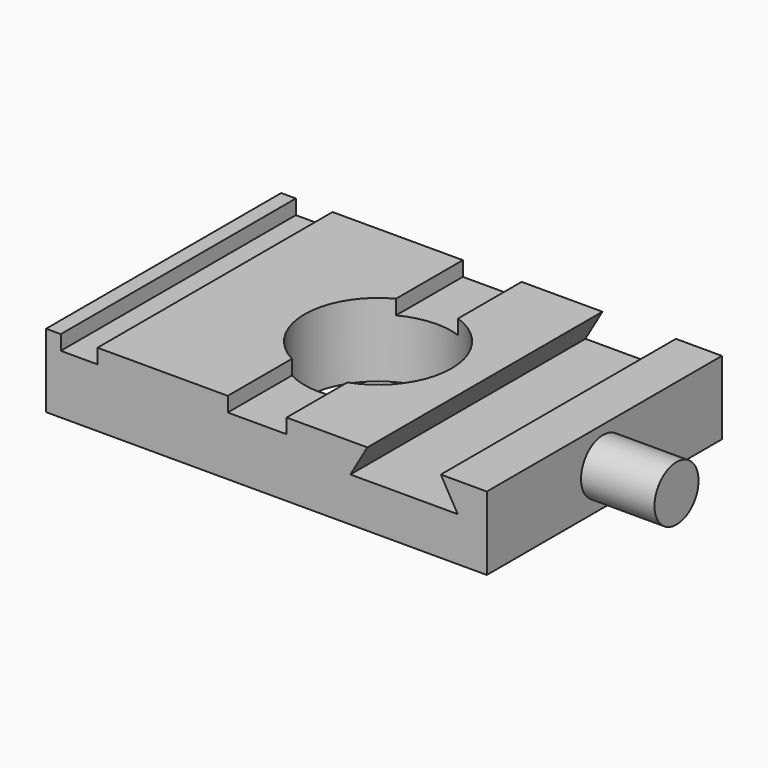
from build123d import *

# Parameters (mm, degrees)
F0_W     = 76.2
F0_H     = 50.8
F0_R     = 12.7
F1_DEPTH = 12.7
F2_W     = 6.35
F2_H     = 50.8
F3_DEPTH = 2.54
F5_DEPTH = 50.801
F6_R     = 4.7625
F7_DEPTH = 12.7


with BuildPart() as f1:
    # F0 (on Top) → F1 (new body)
    with BuildSketch(Plane.XY):
        with Locations((0.796007, 0.286434)):
            Rectangle(F0_W, F0_H)
        Circle(F0_R, mode=Mode.SUBTRACT)
    extrude(amount=F1_DEPTH)

    # F2 (on face) → F3 (cut)
    with BuildSketch(Plane.XY.offset(12.7)):
        with Locations((-31.588993, 0.286434)):
            Rectangle(F2_W, F2_H)
        with BuildLine():
            Line((-5.894164, -11.249392), (-5.894164, -25.113566))
            Line((-5.894164, -25.113566), (4.265836, -25.113566))
            Line((4.265836, -25.113566), (4.265836, -11.962134))
            ThreePointArc((4.265836, -11.962134), (-0.888743, -12.668865), (-5.894164, -11.249392))
        make_face()
        with BuildLine():
            Line((4.265836, 25.686434), (-5.894164, 25.686434))
            Line((-5.894164, 25.686434), (-5.894164, 11.249392))
            ThreePointArc((-5.894164, 11.249392), (-0.888743, 12.668865), (4.265836, 11.962134))
            Line((4.265836, 11.962134), (4.265836, 25.686434))
        make_face()
    extrude(amount=-F3_DEPTH, mode=Mode.SUBTRACT)

    # F4 (on face) → F5 (cut, through all)
    with BuildSketch(Plane.XZ.offset(25.113566)):
        Polygon((30.935836, 12.7), (18.235836, 12.7), (15.302896, 7.62), (33.868775, 7.62), align=None)
    extrude(amount=-F5_DEPTH, mode=Mode.SUBTRACT)

    # F6 (on face) → F7 (join)
    with BuildSketch(Plane.YZ.offset(38.896007)):
        with Locations((0, 6.35)):
            Circle(F6_R)
    extrude(amount=F7_DEPTH)


solid = f1.part
